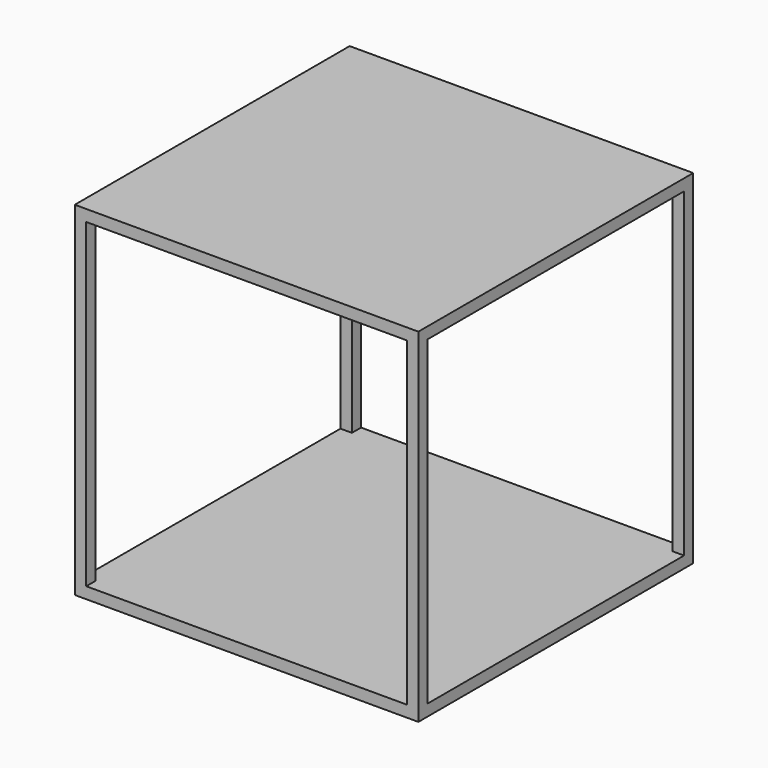
from build123d import *

# Parameters (mm, degrees)
F0_W     = 2700
F0_H     = 2700
F1_DEPTH = 90
F2_W     = 90
F2_H     = 90
F3_DEPTH = 2610
F4_W     = 2700
F4_H     = 2700
F5_DEPTH = 90


with BuildPart() as f1:
    # F0 (on Top) → F1 (new body)
    with BuildSketch(Plane.XY):
        Rectangle(F0_W, F0_H)
    extrude(amount=F1_DEPTH)

    # F2 (on face) → F3 (join)
    with BuildSketch(Plane.XY.offset(90)):
        with Locations((-1305, -1305)):
            Rectangle(F2_W, F2_H)
        with Locations((1305, -1305)):
            Rectangle(F2_W, F2_H)
        with Locations((1305, 1305)):
            Rectangle(F2_W, F2_H)
        with Locations((-1305, 1305)):
            Rectangle(F2_W, F2_H)
    extrude(amount=F3_DEPTH)

    # F4 (on face) → F5 (join)
    with BuildSketch(Plane.XY.offset(2700)):
        Rectangle(F4_W, F4_H)
    extrude(amount=-F5_DEPTH)


solid = f1.part
